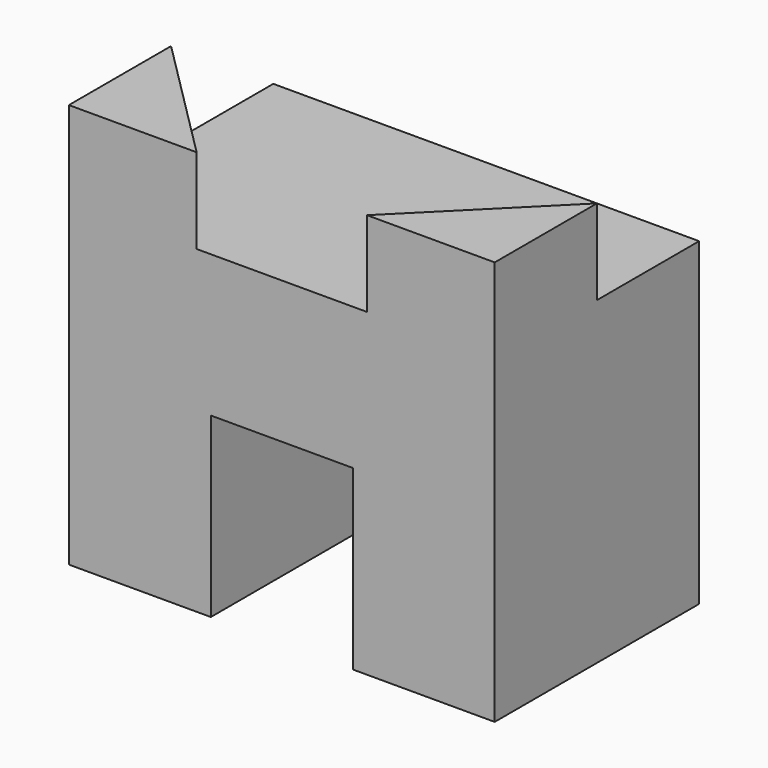
from build123d import *

# Parameters (mm, degrees)
F0_W     = 600
F0_H     = 360
F1_DEPTH = 450
F2_W     = 200
F2_H     = 250
F3_DEPTH = 360.001
F5_DEPTH = 120


with BuildPart() as f1:
    # F0 (on Top) → F1 (new body)
    with BuildSketch(Plane.XY):
        Rectangle(F0_W, F0_H)
        Rectangle(F0_W, F0_H)
    extrude(amount=F1_DEPTH)

    # F2 (on face) → F3 (cut, through all)
    with BuildSketch(Plane.XZ.offset(180)):
        with Locations((0, 125)):
            Rectangle(F2_W, F2_H)
    extrude(amount=-F3_DEPTH, mode=Mode.SUBTRACT)

    # F4 (on face) → F5 (join)
    with BuildSketch(Plane.XY.offset(450)):
        Polygon((-300, 0), (-300, -180), (-120, -180), align=None)
        Polygon((300, 0), (120, -180), (300, -180), align=None)
    extrude(amount=F5_DEPTH)


solid = f1.part
